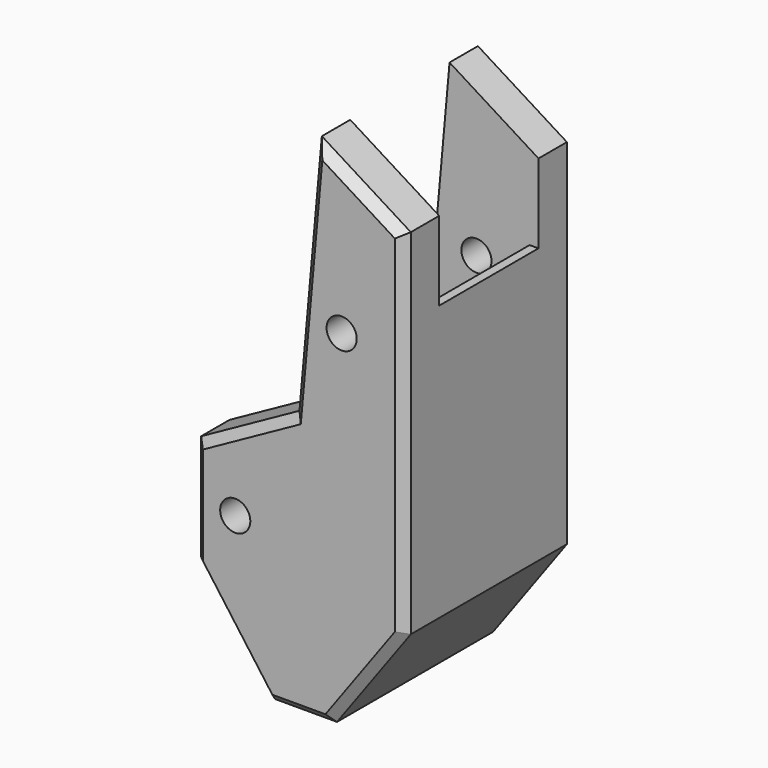
from build123d import *

# Parameters (mm, degrees)
PAD009_DEPTH    = 14
SKETCH008_R     = 1.7
PAD008_DEPTH    = 24
CHAMFER005_SIZE = 1


with BuildPart() as pad009:
    # Sketch009 → Pad009 (new body)
    with BuildSketch(Plane(origin=(0, 33, 0), x_dir=(-1, 0, 0), z_dir=(0, 1, 0))):
        with BuildLine():
            ThreePointArc((89.000023, -13), (93.632628, -11.86221), (97.21105, -8.707771))
            Line((97.21105, -8.707771), (106, 3.935782))
            Line((106, 3.935782), (106, 22))
            Line((106, 22), (112.578117, 22))
            Line((112.578117, 22), (112.578117, 42.659393))
            Line((112.578117, 42.659393), (77.159645, 42.659393))
            Line((77.159645, 42.659393), (77.159645, -13))
            Line((77.159645, -13), (89.000023, -13))
        make_face()
    extrude(amount=-PAD009_DEPTH)


with BuildPart() as clone_of_foot:
    # Sketch008 → Pad008 (new body)
    with BuildSketch(Plane(origin=(0, 14, 0), x_dir=(-1, 0, 0), z_dir=(0, 1, 0))):
        Polygon((84.351819, 2.970513), (95.443832, 9.10709), (97.968148, 37.19022), (108, 30.921623), (108, -9), (99.675909, -20.407844), (92.675909, -20.407844), (84.351819, -9), align=None)
        with Locations((101, 19)):
            Circle(SKETCH008_R, mode=Mode.SUBTRACT)
        with Locations((89, -3)):
            Circle(SKETCH008_R, mode=Mode.SUBTRACT)
    extrude(amount=PAD008_DEPTH)

    # Cut014: cut Pad009
    add(pad009.part, mode=Mode.SUBTRACT)

    # Chamfer005
    chamfer005_edges = [clone_of_foot.edges().sort_by_distance(p)[0] for p in [
        (-89.897825, 14, 6.038802),
        (-96.70599, 14, 23.148655),
        (-102.984074, 14, 34.055922),
        (-108, 14, 10.960812),
        (-103.837955, 14, -14.703922),
        (-96.175909, 14, -20.407844),
        (-88.513864, 14, -14.703922),
        (-84.351819, 14, -3.014744),
        (-108, 38, 10.960812),
        (-103.837955, 38, -14.703922),
        (-96.175909, 38, -20.407844),
        (-87.270544, 26, -13),
        (-88.513864, 38, -14.703922),
        (-106, 26, 22),
        (-89.897825, 38, 6.038802),
        (-96.70599, 38, 23.148655),
        (-102.984074, 38, 34.055922),
        (-84.351819, 38, -3.014744),
    ]]
    chamfer(chamfer005_edges, length=CHAMFER005_SIZE)


with BuildPart() as part_mirroring015:
    # Part__Mirroring015: instance of Clone of foot
    add(clone_of_foot.part.mirror(Plane(origin=(0, 0, 0), x_dir=(0, -1, 0), z_dir=(1, 0, 0))))


with BuildPart() as part_mirroring023:
    # Part__Mirroring023: instance of Part__Mirroring015
    add(part_mirroring015.part.mirror(Plane(origin=(0, 0, 0), x_dir=(1, 0, 0), z_dir=(0, 1, 0))))


solid = part_mirroring023.part
